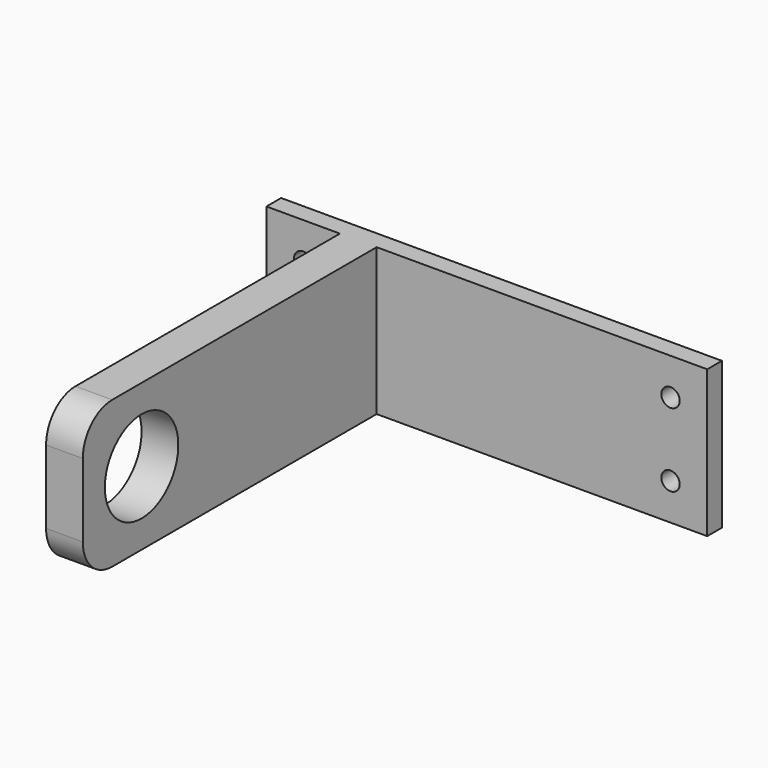
from build123d import *

# Parameters (mm, degrees)
F0_W     = 152.4
F0_H     = 50.8
F1_DEPTH = 6.35
F3_D     = 6.35
F4_W     = 12.7
F4_H     = 50.8
F5_DEPTH = 127
F6_R     = 12.7
F8_D     = 31.75


with BuildPart() as f1:
    # F0 (on Front) → F1 (new body)
    with BuildSketch(Plane.XZ):
        with Locations((76.2, 25.4)):
            Rectangle(F0_W, F0_H)
    extrude(amount=F1_DEPTH)

    # F3 (through all)
    with Locations(Plane.XZ.offset(6.35)):
        with Locations((12.7, 38.1), (12.7, 12.7), (139.7, 38.1), (139.7, 12.7)):
            Hole(F3_D / 2)

    # F4 (on face) → F5 (join)
    with BuildSketch(Plane.XZ.offset(6.35)):
        with Locations((31.75, 25.4)):
            Rectangle(F4_W, F4_H)
    extrude(amount=F5_DEPTH)

    # F6
    f6_edges = [f1.edges().sort_by_distance(p)[0] for p in [
        (31.75, -133.35, 0),
        (31.75, -133.35, 50.8),
    ]]
    fillet(f6_edges, radius=F6_R)

    # F8 (through all)
    with Locations(Plane.YZ.offset(38.1)):
        with Locations((-107.95, 25.4)):
            Hole(F8_D / 2)


solid = f1.part
